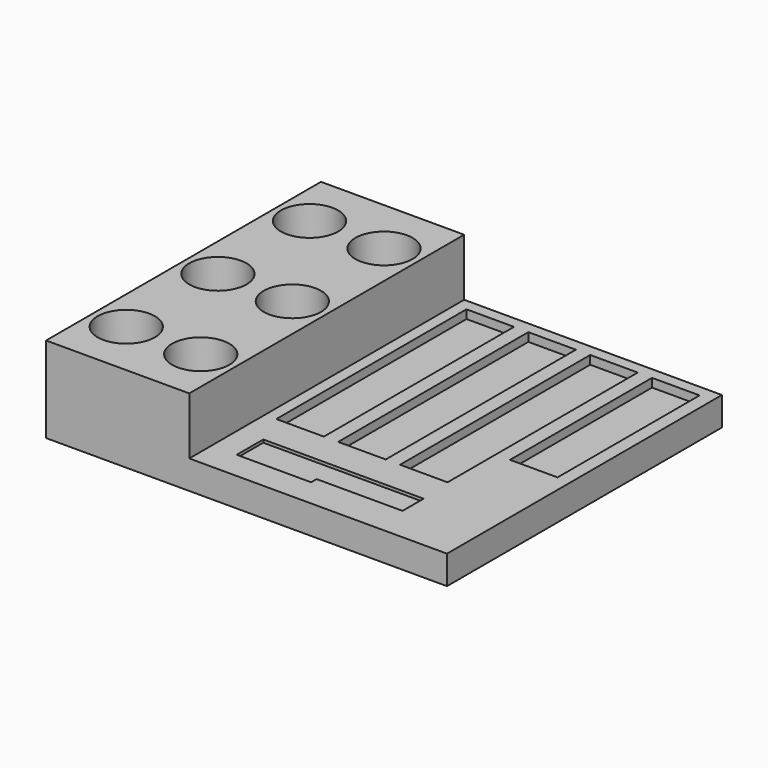
from build123d import *

# Parameters (mm, degrees)
F0_W     = 31.75
F0_H     = 76.2
F1_DEPTH = 19.05
F0_W_2   = 57.15
F2_DEPTH = 6.35
F3_R     = 6.35
F4_DEPTH = 15.24
F5_W     = 10.541
F5_H     = 52.705
F5_H_2   = 39.37
F6_DEPTH = 1.905
F7_DEPTH = 1.27


with BuildPart() as f1:
    # F0 (on Top) → F1 (new body)
    with BuildSketch(Plane.XY):
        with Locations((-24.9883290738, -11.122222997)):
            Rectangle(F0_W, F0_H)
    extrude(amount=F1_DEPTH)

    # F0 (on Top) → F2 (join)
    with BuildSketch(Plane.XY):
        with Locations((19.4616709262, -11.122222997)):
            Rectangle(F0_W_2, F0_H)
        with Locations((-24.9883290738, -11.122222997)):
            Rectangle(F0_W, F0_H)
    extrude(amount=F2_DEPTH)

    # F3 (on face) → F4 (cut)
    with BuildSketch(Plane.XY.offset(19.05)):
        with Locations((-33.2433290738, 14.277777003)):
            Circle(F3_R)
        with Locations((-16.7333290738, 14.277777003)):
            Circle(F3_R)
        with Locations((-33.2433290738, -11.122222997)):
            Circle(F3_R)
        with Locations((-16.7333290738, -11.122222997)):
            Circle(F3_R)
        with Locations((-16.7333290738, -36.522222997)):
            Circle(F3_R)
        with Locations((-33.2433290738, -36.522222997)):
            Circle(F3_R)
    extrude(amount=-F4_DEPTH, mode=Mode.SUBTRACT)

    # F5 (on face) → F6 (cut)
    with BuildSketch(Plane.XY.offset(6.35)):
        with Locations((12.4131709262, -1.914722997)):
            Rectangle(F5_W, F5_H)
        with Locations((-1.3028290738, -1.914722997)):
            Rectangle(F5_W, F5_H)
        with Locations((39.8451709262, 4.752777003)):
            Rectangle(F5_W, F5_H_2)
        with Locations((26.1291709262, -1.914722997)):
            Rectangle(F5_W, F5_H)
        Polygon((32.0029154061, -35.6534661021), (-3.5570845939, -35.6534661021), (-3.5570845939, -43.0194661021), (12.9529154061, -43.0194661021), (12.9529154061, -41.4954661021), (32.0029154061, -41.4954661021), align=None)
    extrude(amount=-F6_DEPTH, mode=Mode.SUBTRACT)

    # F7 (add): a face of the model
    f7_faces = [f1.faces().sort_by_distance(p)[0] for p in [
        (13.1938987856, -38.9723525287, 4.445),
    ]]
    extrude(f7_faces, amount=F7_DEPTH)


solid = f1.part
